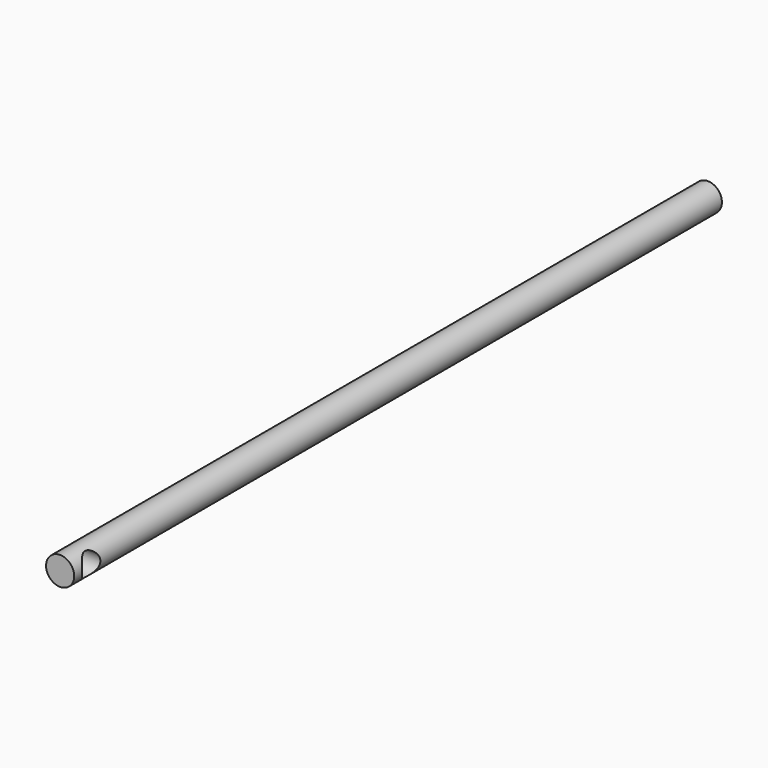
from build123d import *

# Parameters (mm, degrees)
F0_R     = 2
F1_DEPTH = 115
F2_R     = 1.65
F3_DEPTH = 12.5


with BuildPart() as f1:
    # F0 (on Front) → F1 (new body)
    with BuildSketch(Plane.XZ):
        Circle(F0_R)
    extrude(amount=F1_DEPTH)

    # F2 (on Right) → F3 (cut, symmetric)
    with BuildSketch(Plane.YZ):
        with Locations((-112, 0)):
            Circle(F2_R)
    extrude(amount=F3_DEPTH, both=True, mode=Mode.SUBTRACT)


solid = f1.part
